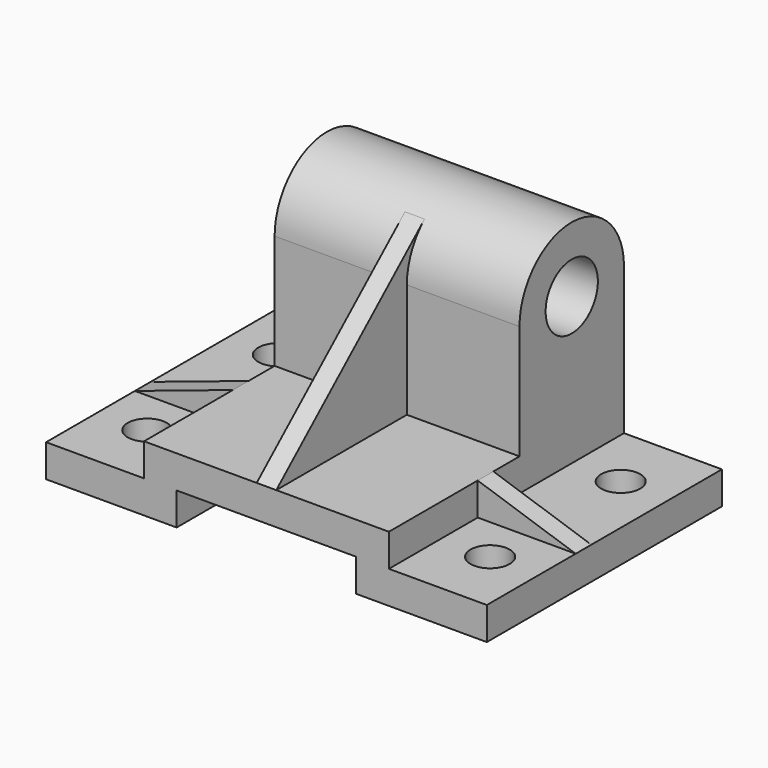
from build123d import *

# Parameters (mm, degrees)
F1_DEPTH      = 45
F2_R          = 6
F3_DEPTH      = 25
F4_R          = 10
F5_DEPTH      = 75
F7_DEPTH      = 3
F7_DEPTH_BACK = 3
F10_DEPTH     = 6


with BuildPart() as f1:
    # F0 (on Front) → F1 (new body, symmetric)
    with BuildSketch(Plane.XZ):
        Polygon((-27.5, 10), (0, 10), (0, 20), (-37.5, 20), (-37.5, 10), (-67.5, 10), (-67.5, 0), (-27.5, 0), align=None)
        Polygon((0, 20), (0, 10), (27.5, 10), (27.5, 0), (67.5, 0), (67.5, 10), (37.5, 10), (37.5, 20), align=None)
    extrude(amount=F1_DEPTH, both=True)

    # F2 (on face) → F3 (cut)
    with BuildSketch(Plane.XY.offset(10)):
        with Locations((-52.5, 25)):
            Circle(F2_R)
        with Locations((52.5, 25)):
            Circle(F2_R)
        with Locations((52.5, -25)):
            Circle(F2_R)
        with Locations((-52.5, -25)):
            Circle(F2_R)
    extrude(amount=-F3_DEPTH, mode=Mode.SUBTRACT)

    # F4 (on face) → F5 (join, through all)
    with BuildSketch(Plane(origin=(-37.5, 0, 0), x_dir=(0, -1, 0), z_dir=(-1, 0, 0))):
        with BuildLine():
            Line((-45, 55), (-45, 20))
            Line((-45, 20), (-5, 20))
            Line((-5, 20), (-5, 55))
            ThreePointArc((-5, 55), (-25, 75), (-45, 55))
        make_face()
        with Locations((-25, 55)):
            Circle(F4_R, mode=Mode.SUBTRACT)
    extrude(amount=-F5_DEPTH)

    # F6 (on Right) → F7 (join, two sides)
    with BuildSketch(Plane.YZ) as f7_sk:
        with BuildLine():
            ThreePointArc((5, 55), (6.7739988007, 63.2348576359), (11.7812880283, 70.0088525148))
            Line((11.7812880283, 70.0088525148), (-45, 20))
            Line((-45, 20), (5, 20))
            Line((5, 20), (5, 55))
        make_face()
    extrude(amount=F7_DEPTH)
    extrude(f7_sk.sketch, amount=-F7_DEPTH_BACK)

    # F9 (on offset) → F10 (join)
    with BuildSketch(Plane.XZ.offset(5)):
        Polygon((-37.5, 20), (-67.5, 10), (-37.5, 10), align=None)
        Polygon((37.5, 10), (67.5, 10), (37.5, 20), align=None)
    extrude(amount=F10_DEPTH)


solid = f1.part
